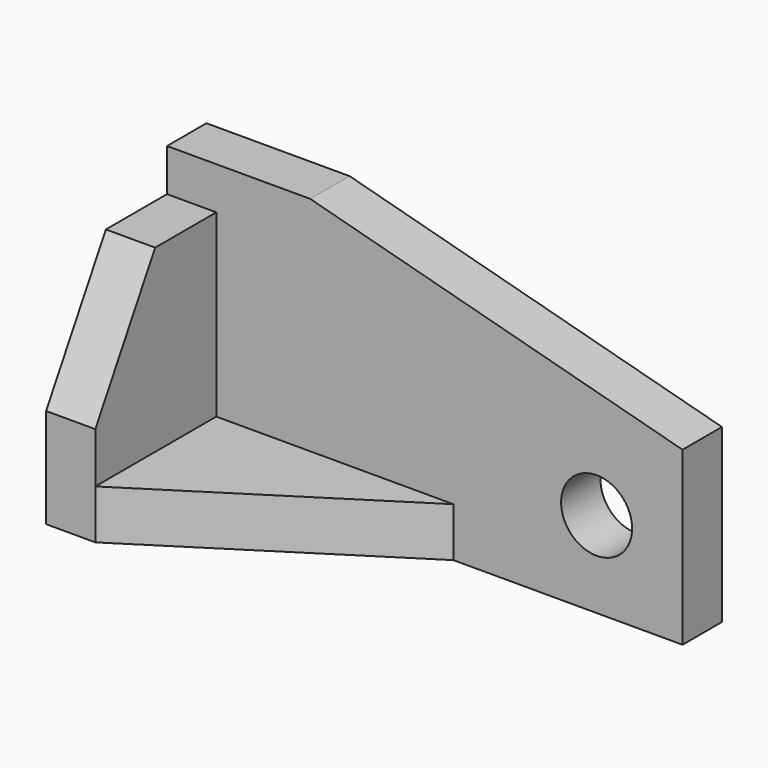
from build123d import *

# Parameters (mm, degrees)
F0_R     = 7.874
F1_DEPTH = 10.922
F2_DEPTH = 44.45
F0_W     = 52.578
F0_H     = 10.922
F3_DEPTH = 44.45
F5_DEPTH = 25.4
F7_DEPTH = 25.4


with BuildPart() as f1:
    # F0 (on Front) → F1 (new body)
    with BuildSketch(Plane.XZ):
        Polygon((-27.49175, 41.148), (-59.24175, 41.148), (-59.24175, 31.75), (-48.31975, 31.75), (-48.31975, -8.128), (4.25825, -8.128), (4.25825, -19.05), (55.05825, -19.05), (55.05825, 19.028794), align=None)
        with Locations((36.00825, 0)):
            Circle(F0_R, mode=Mode.SUBTRACT)
    extrude(amount=F1_DEPTH)

    # F0 (on Front) → F2 (join)
    with BuildSketch(Plane.XZ):
        Polygon((-48.31975, 31.75), (-59.24175, 31.75), (-59.24175, -19.05), (-48.31975, -19.05), (-48.31975, -8.128), align=None)
    extrude(amount=F2_DEPTH)

    # F0 (on Front) → F3 (join)
    with BuildSketch(Plane.XZ):
        with Locations((-22.03075, -13.589)):
            Rectangle(F0_W, F0_H)
    extrude(amount=F3_DEPTH)

    # F4 (on face) → F5 (cut)
    with BuildSketch(Plane.XY.offset(-8.128)):
        Polygon((4.25825, -10.922), (-48.31975, -44.45), (4.25825, -44.45), align=None)
    extrude(amount=-F5_DEPTH, mode=Mode.SUBTRACT)

    # F6 (on face) → F7 (cut)
    with BuildSketch(Plane(origin=(-59.24175, 0, 0), x_dir=(0, -1, 0), z_dir=(-1, 0, 0))):
        Polygon((27.878893, 31.75), (44.45, 3.048), (44.45, 31.75), align=None)
    extrude(amount=-F7_DEPTH, mode=Mode.SUBTRACT)


solid = f1.part
